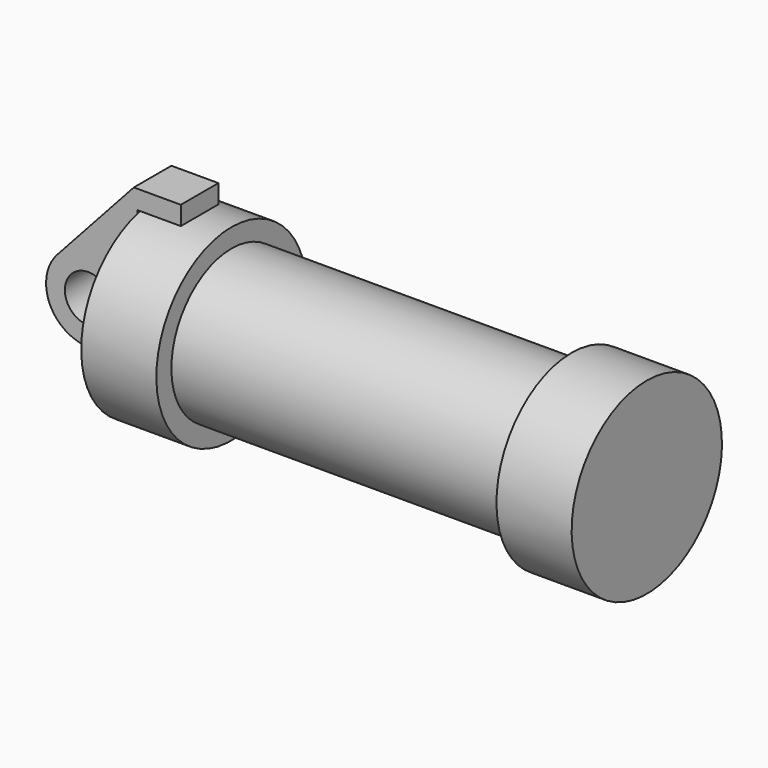
from build123d import *

# Parameters (mm, degrees)
F0_W     = 5.842
F0_H     = 12.7
F0_R     = 3.175
F2_DEPTH = 3.175


with BuildPart() as f1:
    # F0 (on Front) → F1 (revolve)
    with BuildSketch(Plane.XZ):
        Polygon((5.842, 12.7), (5.842, 0), (66.294, 0), (66.294, 12.7), (56.134, 12.7), (56.134, 10.16), (10.16, 10.16), (10.16, 12.7), align=None)
        with Locations((2.921, 6.35)):
            Rectangle(F0_W, F0_H)
    revolve(axis=Axis((33.147, 0, 0), (-1, 0, 0)))


with BuildPart() as f2:
    # F0 (on Front) → F2 (new body, symmetric)
    with BuildSketch(Plane.XZ):
        with BuildLine():
            Line((-0.9398, 0), (0, 0))
            Line((0, 0), (0, 12.7))
            Line((0, 12.7), (5.842, 12.7))
            Line((5.842, 12.7), (5.842, 15.24))
            Line((5.842, 15.24), (-0.508, 15.24))
            Line((-0.508, 15.24), (-10.88063, 3.847543))
            ThreePointArc((-10.88063, 3.847543), (-4.591961, 5.329721), (-0.9398, 0))
        make_face()
        with BuildLine():
            ThreePointArc((-8.182663, -5.506983), (-3.195791, -4.549339), (-0.9398, 0))
            ThreePointArc((-0.9398, 0), (-4.591961, 5.329721), (-10.88063, 3.847543))
            ThreePointArc((-10.88063, 3.847543), (-12.145978, -1.583727), (-8.182663, -5.506983))
        make_face()
        with Locations((-6.6548, 0)):
            Circle(F0_R, mode=Mode.SUBTRACT)
        with BuildLine():
            Line((5.842, 0), (0, 0))
            Line((0, 0), (-0.9398, 0))
            ThreePointArc((-0.9398, 0), (-3.195791, -4.549339), (-8.182663, -5.506983))
            Line((-8.182663, -5.506983), (5.842, -9.398))
            Line((5.842, -9.398), (5.842, 0))
        make_face()
    extrude(amount=F2_DEPTH, both=True)


solid = Compound([f1.part, f2.part])
